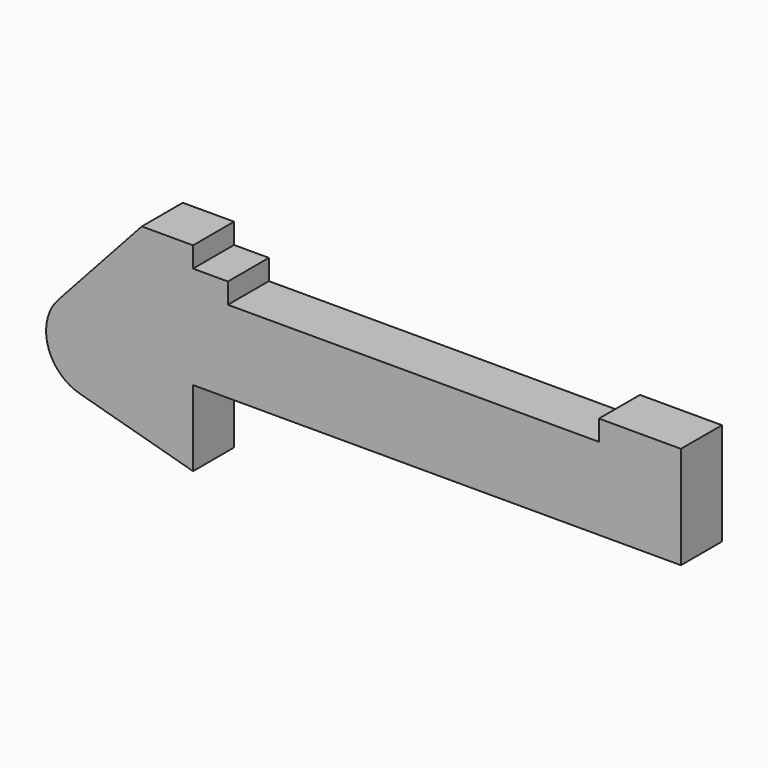
from build123d import *

# Parameters (mm, degrees)
F0_W     = 5.842
F0_H     = 12.7
F0_R     = 3.175
F1_DEPTH = 6.35


with BuildPart() as f1:
    # F0 (on Front) → F1 (new body)
    with BuildSketch(Plane.XZ):
        Polygon((5.842, 12.7), (5.842, 0), (66.294, 0), (66.294, 12.7), (56.134, 12.7), (56.134, 10.16), (10.16, 10.16), (10.16, 12.7), align=None)
        with Locations((2.921, 6.35)):
            Rectangle(F0_W, F0_H)
        with BuildLine():
            Line((-0.9398, 0), (0, 0))
            Line((0, 0), (0, 12.7))
            Line((0, 12.7), (5.842, 12.7))
            Line((5.842, 12.7), (5.842, 15.24))
            Line((5.842, 15.24), (-0.508, 15.24))
            Line((-0.508, 15.24), (-10.88063, 3.847543))
            ThreePointArc((-10.88063, 3.847543), (-4.591961, 5.329721), (-0.9398, 0))
        make_face()
        with BuildLine():
            ThreePointArc((-8.182663, -5.506983), (-3.195791, -4.549339), (-0.9398, 0))
            ThreePointArc((-0.9398, 0), (-4.591961, 5.329721), (-10.88063, 3.847543))
            ThreePointArc((-10.88063, 3.847543), (-12.145978, -1.583727), (-8.182663, -5.506983))
        make_face()
        with Locations((-6.6548, 0)):
            Circle(F0_R, mode=Mode.SUBTRACT)
        with Locations((-6.6548, 0)):
            Circle(F0_R)
        with BuildLine():
            Line((5.842, 0), (0, 0))
            Line((0, 0), (-0.9398, 0))
            ThreePointArc((-0.9398, 0), (-3.195791, -4.549339), (-8.182663, -5.506983))
            Line((-8.182663, -5.506983), (5.842, -9.398))
            Line((5.842, -9.398), (5.842, 0))
        make_face()
    extrude(amount=F1_DEPTH)


solid = f1.part
